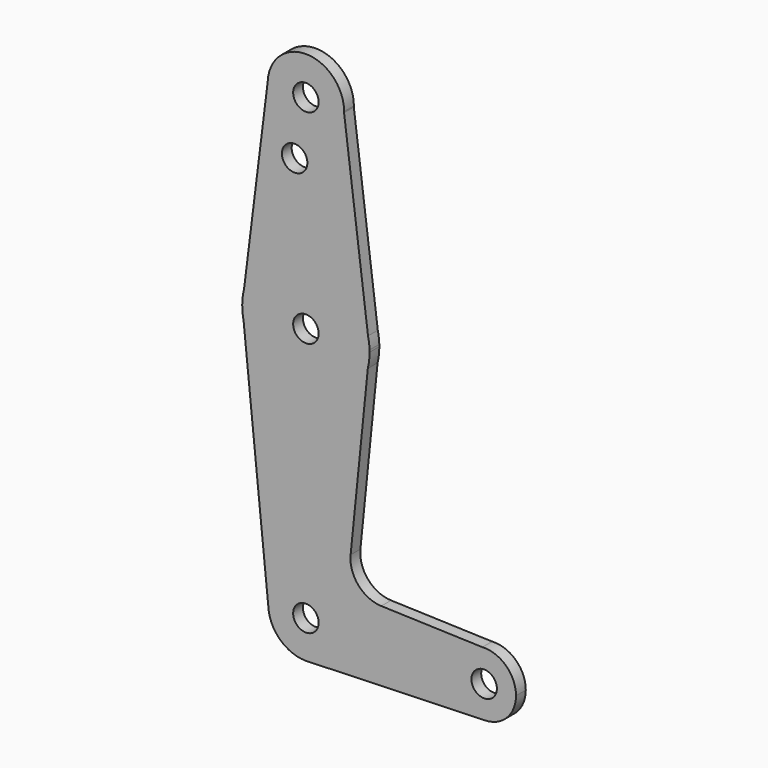
from build123d import *

# Parameters (mm, degrees)
F0_R     = 3.175
F1_DEPTH = 3.048


with BuildPart() as f1:
    # F0 (on Front) → F1 (new body)
    with BuildSketch(Plane.XZ):
        with BuildLine():
            ThreePointArc((-18.3583491941, 28.8105526229), (-18.0329433914, 30.6418966526), (-17.9239761507, 32.4987316026))
            ThreePointArc((-17.9239761507, 32.4987316026), (-17.9260743408, 32.7568268019), (-17.9323683563, 33.0148537767))
            Line((-17.9323683563, 33.0148537767), (-18.3583491941, 28.8105526229))
        make_face()
        with BuildLine():
            Line((-18.3065384513, 35.9628330923), (-17.9323683563, 33.0148537767))
            ThreePointArc((-17.9323683563, 33.0148537767), (-18.0503229041, 34.4976177721), (-18.3065384513, 35.9628330923))
        make_face()
        with BuildLine():
            Line((-18.3583491941, 28.8105526229), (-17.9323683563, 33.0148537767))
            Line((-17.9323683563, 33.0148537767), (-18.3065384513, 35.9628330923))
            ThreePointArc((-18.3065384513, 35.9628330923), (-33.6091531578, 48.3725966717), (-49.2041466327, 36.3323131423))
            Line((-49.2041466327, 36.3323131423), (-49.6738702633, 32.5567136159))
            Line((-49.6738702633, 32.5567136159), (-49.337996397, 29.2499664856))
            ThreePointArc((-49.337996397, 29.2499664856), (-34.024123759, 16.6253282639), (-18.3583491941, 28.8105526229))
        make_face()
        with Locations((-33.7989761507, 32.4987316026)):
            Circle(F0_R, mode=Mode.SUBTRACT)
        with BuildLine():
            Line((-22.6445108659, -13.4925579017), (-18.3583491941, 28.8105526229))
            ThreePointArc((-18.3583491941, 28.8105526229), (-34.024123759, 16.6253282639), (-49.337996397, 29.2499664856))
            Line((-49.337996397, 29.2499664856), (-43.1646729579, -31.5276694486))
            ThreePointArc((-43.1646729579, -31.5276694486), (-34.0622804242, -21.6244861343), (-24.4184977647, -31.0012683974))
            ThreePointArc((-24.4184977647, -31.0012683974), (-26.9548544855, -37.41620202), (-33.1923303326, -40.3621100049))
            Line((-33.1923303326, -40.3621100049), (10.9078216897, -38.9346132858))
            ThreePointArc((10.9078216897, -38.9346132858), (2.7213676675, -31.3540559933), (10.2022981676, -23.0764623106))
            Line((10.2022981676, -23.0764623106), (-14.998607883, -22.2397931888))
            ThreePointArc((-14.998607883, -22.2397931888), (-20.7206299049, -19.5261410723), (-22.6445108659, -13.4925579017))
        make_face()
        with BuildLine():
            ThreePointArc((-49.2041466327, 36.3323131423), (-33.6091531578, 48.3725966717), (-18.3065384513, 35.9628330923))
            Line((-18.3065384513, 35.9628330923), (-24.2782787525, 83.0124693944))
            ThreePointArc((-24.2782787525, 83.0124693944), (-34.1168310784, 73.7790365841), (-43.317563955, 83.6481757495))
            Line((-43.317563955, 83.6481757495), (-49.2041466327, 36.3323131423))
        make_face()
        with Locations((-36.6096198559, 69.0239316026)):
            Circle(F0_R, mode=Mode.SUBTRACT)
        with BuildLine():
            ThreePointArc((-49.6738702633, 32.5567136159), (-49.5927137698, 30.8945255631), (-49.337996397, 29.2499664856))
            Line((-49.337996397, 29.2499664856), (-49.6738702633, 32.5567136159))
        make_face()
        with BuildLine():
            Line((-49.6738702633, 32.5567136159), (-49.2041466327, 36.3323131423))
            ThreePointArc((-49.2041466327, 36.3323131423), (-49.5525280742, 34.4586363947), (-49.6738702633, 32.5567136159))
        make_face()
        with BuildLine():
            ThreePointArc((-43.317563955, 83.6481757495), (-34.1168310784, 73.7790365841), (-24.2782787525, 83.0124693944))
            ThreePointArc((-24.2782787525, 83.0124693944), (-24.2750518619, 83.1555843321), (-24.2739761507, 83.2987316026))
            ThreePointArc((-24.2739761507, 83.2987316026), (-33.6242246643, 92.8221284188), (-43.317563955, 83.6481757495))
        make_face()
        with Locations((-33.7989761507, 83.2987316026)):
            Circle(F0_R, mode=Mode.SUBTRACT)
        with BuildLine():
            ThreePointArc((-24.4184977647, -31.0012683974), (-34.0622804242, -21.6244861343), (-43.1646729579, -31.5276694486))
            ThreePointArc((-43.1646729579, -31.5276694486), (-40.2431782374, -37.8178389587), (-33.7989761507, -40.3817467834))
            Line((-33.7989761507, -40.3817467834), (-33.1923303326, -40.3621100049))
            ThreePointArc((-33.1923303326, -40.3621100049), (-26.9548544855, -37.41620202), (-24.4184977647, -31.0012683974))
        make_face()
        with Locations((-33.7989761507, -31.0012683974)):
            Circle(F0_R, mode=Mode.SUBTRACT)
        with BuildLine():
            Line((-33.1923303326, -40.3621100049), (-33.7989761507, -40.3817467834))
            ThreePointArc((-33.7989761507, -40.3817467834), (-33.4954943754, -40.3768363035), (-33.1923303326, -40.3621100049))
        make_face()
        with BuildLine():
            ThreePointArc((18.5885238493, -31.0012683974), (16.1027275349, -25.2321408053), (10.2022981676, -23.0764623106))
            ThreePointArc((10.2022981676, -23.0764623106), (2.7213676675, -31.3540559933), (10.9078216897, -38.9346132858))
            ThreePointArc((10.9078216897, -38.9346132858), (16.3537529814, -36.5223902667), (18.5885238493, -31.0012683974))
        make_face()
        with Locations((10.6510238493, -31.0012683974)):
            Circle(F0_R, mode=Mode.SUBTRACT)
    extrude(amount=F1_DEPTH)


solid = f1.part
